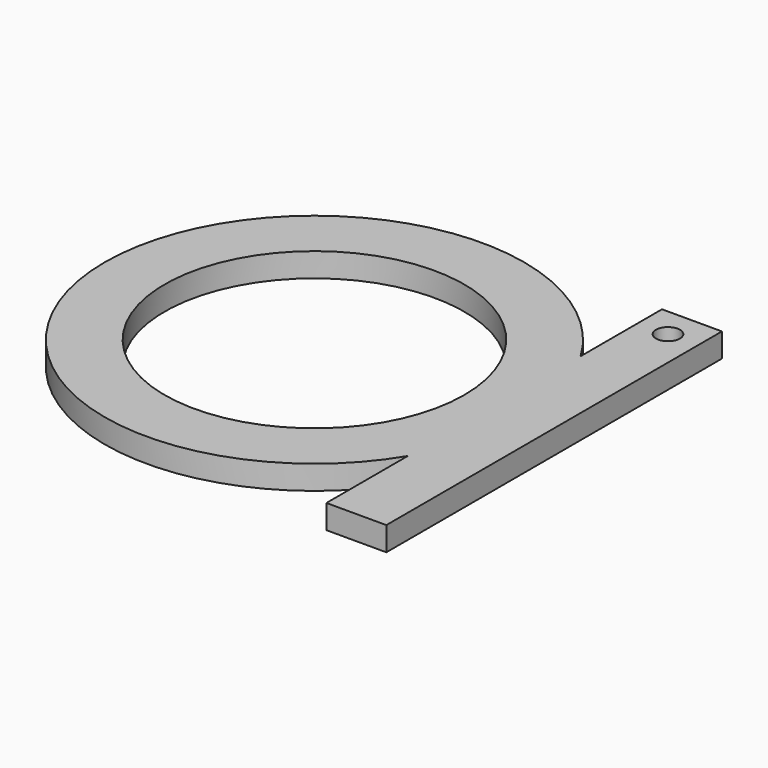
from build123d import *

# Parameters (mm, degrees)
F0_R     = 12.5
F1_DEPTH = 2
F2_R     = 1
F3_DEPTH = 2


with BuildPart() as f1:
    # F0 (on Top) → F1 (new body)
    with BuildSketch(Plane.XY):
        with BuildLine():
            Line((15, -9.0138781887), (15, 9.0138781887))
            ThreePointArc((15, 9.0138781887), (-17.5, 0), (15, -9.0138781887))
        make_face()
        Circle(F0_R, mode=Mode.SUBTRACT)
        with BuildLine():
            ThreePointArc((15, -9.0138781887), (16.863421954, -4.6770717335), (17.5, 0))
            ThreePointArc((17.5, 0), (16.863421954, 4.6770717335), (15, 9.0138781887))
            Line((15, 9.0138781887), (15, -9.0138781887))
        make_face()
        with BuildLine():
            ThreePointArc((15, 9.0138781887), (16.863421954, 4.6770717335), (17.5, 0))
            ThreePointArc((17.5, 0), (16.863421954, -4.6770717335), (15, -9.0138781887))
            Line((15, -9.0138781887), (15, -17.5))
            Line((15, -17.5), (20, -17.5))
            Line((20, -17.5), (20, 17.5))
            Line((20, 17.5), (15, 17.5))
            Line((15, 17.5), (15, 9.0138781887))
        make_face()
    extrude(amount=F1_DEPTH)

    # F2 (on face) → F3 (cut)
    with BuildSketch(Plane.XY.offset(2)):
        with Locations((17.5, 15)):
            Circle(F2_R)
    extrude(amount=-F3_DEPTH, mode=Mode.SUBTRACT)


solid = f1.part
